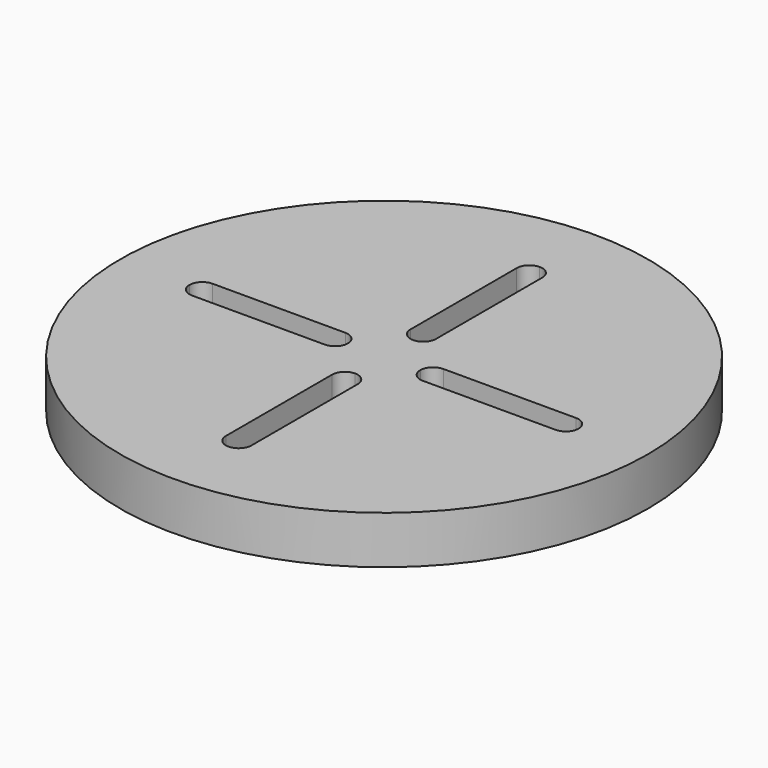
from build123d import *

# Parameters (mm, degrees)
F0_R     = 175
F1_DEPTH = 31.75


with BuildPart() as f1:
    # F0 (on Top) → F1 (new body)
    with BuildSketch(Plane.XY):
        Circle(F0_R)
        with BuildLine():
            ThreePointArc((0, -129), (-6.010408, -126.510408), (-8.5, -120.5))
            Line((-8.5, -120.5), (-8.5, -32.5))
            ThreePointArc((-8.5, -32.5), (-6.010408, -26.489592), (0, -24))
            ThreePointArc((0, -24), (6.010408, -26.489592), (8.5, -32.5))
            Line((8.5, -32.5), (8.5, -120.5))
            ThreePointArc((8.5, -120.5), (6.010408, -126.510408), (0, -129))
        make_face(mode=Mode.SUBTRACT)
        with BuildLine():
            ThreePointArc((-129, 0), (-126.510408, 6.010408), (-120.5, 8.5))
            Line((-120.5, 8.5), (-32.5, 8.5))
            ThreePointArc((-32.5, 8.5), (-26.489592, 6.010408), (-24, 0))
            ThreePointArc((-24, 0), (-26.489592, -6.010408), (-32.5, -8.5))
            Line((-32.5, -8.5), (-120.5, -8.5))
            ThreePointArc((-120.5, -8.5), (-126.510408, -6.010408), (-129, 0))
        make_face(mode=Mode.SUBTRACT)
        with BuildLine():
            ThreePointArc((129, 0), (126.510408, -6.010408), (120.5, -8.5))
            Line((120.5, -8.5), (32.5, -8.5))
            ThreePointArc((32.5, -8.5), (26.489592, -6.010408), (24, 0))
            ThreePointArc((24, 0), (26.489592, 6.010408), (32.5, 8.5))
            Line((32.5, 8.5), (120.5, 8.5))
            ThreePointArc((120.5, 8.5), (126.510408, 6.010408), (129, 0))
        make_face(mode=Mode.SUBTRACT)
        with BuildLine():
            Line((-8.5, 32.5), (-8.5, 120.5))
            ThreePointArc((-8.5, 120.5), (-6.010408, 126.510408), (0, 129))
            ThreePointArc((0, 129), (6.010408, 126.510408), (8.5, 120.5))
            Line((8.5, 120.5), (8.5, 32.5))
            ThreePointArc((8.5, 32.5), (6.010408, 26.489592), (0, 24))
            ThreePointArc((0, 24), (-6.010408, 26.489592), (-8.5, 32.5))
        make_face(mode=Mode.SUBTRACT)
    extrude(amount=F1_DEPTH)


solid = f1.part
